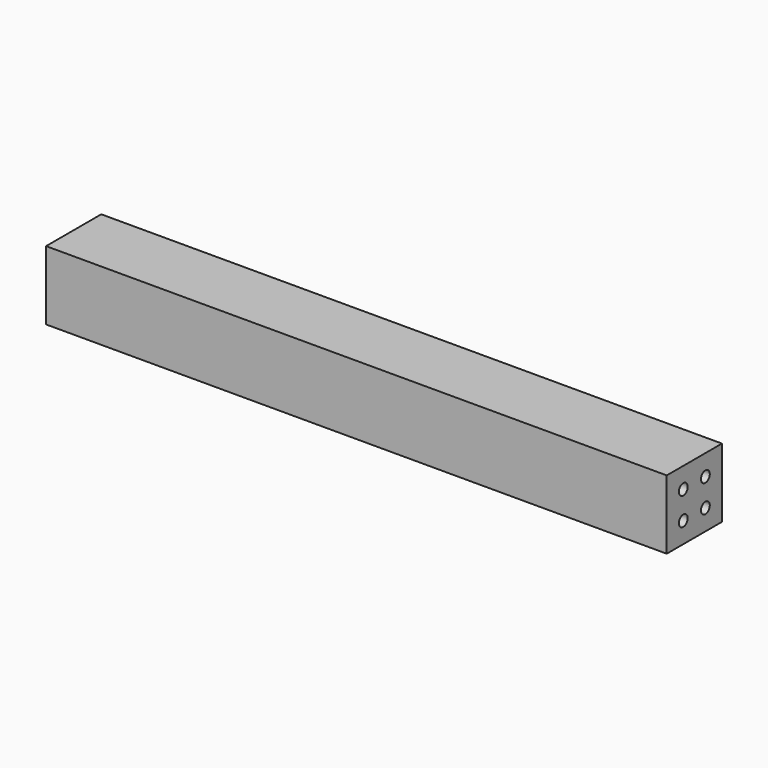
from build123d import *

# Parameters (mm, degrees)
F0_W     = 50
F0_H     = 50
F1_DEPTH = 225
F2_R     = 4
F3_DEPTH = 25
F4_R     = 4
F5_DEPTH = 25


with BuildPart() as f1:
    # F0 (on Right) → F1 (new body, symmetric)
    with BuildSketch(Plane.YZ):
        Rectangle(F0_W, F0_H)
    extrude(amount=F1_DEPTH, both=True)

    # F2 (on face) → F3 (cut)
    with BuildSketch(Plane.YZ.offset(225)):
        with Locations((-10, 10)):
            Circle(F2_R)
        with Locations((10, 10)):
            Circle(F2_R)
        with Locations((10, -10)):
            Circle(F2_R)
        with Locations((-10, -10)):
            Circle(F2_R)
    extrude(amount=-F3_DEPTH, mode=Mode.SUBTRACT)

    # F4 (on face) → F5 (cut)
    with BuildSketch(Plane(origin=(-225, 0, 0), x_dir=(0, -1, 0), z_dir=(-1, 0, 0))):
        with Locations((-10, 10)):
            Circle(F4_R)
        with Locations((10, 10)):
            Circle(F4_R)
        with Locations((10, -10)):
            Circle(F4_R)
        with Locations((-10, -10)):
            Circle(F4_R)
    extrude(amount=-F5_DEPTH, mode=Mode.SUBTRACT)


solid = f1.part
